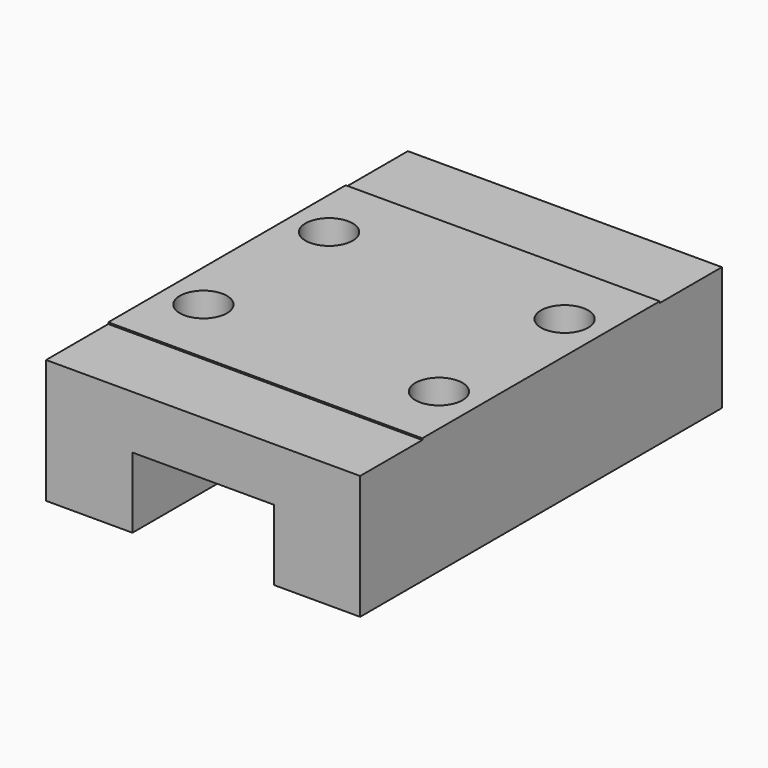
from build123d import *

# Parameters (mm, degrees)
SKETCH038_W     = 20
SKETCH038_H     = 28.8
PAD013_DEPTH    = 8
SKETCH039_W     = 9
SKETCH039_H     = 4.5
POCKET025_DEPTH = 28.8
SKETCH040_R     = 1.5
POCKET023_DEPTH = 4
SKETCH041_W     = 20
SKETCH041_H     = 4.95
POCKET026_DEPTH = 0.1


with BuildPart() as part:
    # Sketch038 → Pad013 (new body)
    with BuildSketch(Plane.XY):
        with Locations((-4.5, 14.4)):
            Rectangle(SKETCH038_W, SKETCH038_H)
    extrude(amount=PAD013_DEPTH)

    # Sketch039 (on Face1 of Pad013) → Pocket025 (cut)
    with BuildSketch(Plane.XZ):
        with Locations((-4.5, 2.25)):
            Rectangle(SKETCH039_W, SKETCH039_H)
    extrude(amount=-POCKET025_DEPTH, mode=Mode.SUBTRACT)

    # Sketch040 (on Face8 of Pocket025) → Pocket023 (cut)
    with BuildSketch(Plane.XY.offset(8)):
        with Locations((-12, 19.4)):
            Circle(SKETCH040_R)
        with Locations((3, 9.4)):
            Circle(SKETCH040_R)
        with Locations((-12, 9.4)):
            Circle(SKETCH040_R)
        with Locations((3, 19.4)):
            Circle(SKETCH040_R)
    extrude(amount=-POCKET023_DEPTH, mode=Mode.SUBTRACT)

    # Sketch041 (on Face8 of Pocket023) → Pocket026 (cut)
    with BuildSketch(Plane.XY.offset(8)):
        with Locations((-4.5, 26.325)):
            Rectangle(SKETCH041_W, SKETCH041_H)
        with Locations((-4.5, 2.475)):
            Rectangle(SKETCH041_W, SKETCH041_H)
    extrude(amount=-POCKET026_DEPTH, mode=Mode.SUBTRACT)


with BuildPart() as part_1:
    # Body014 placement: moved
    add(part.part.moved(Location((0, 100, 2))))


solid = part_1.part
